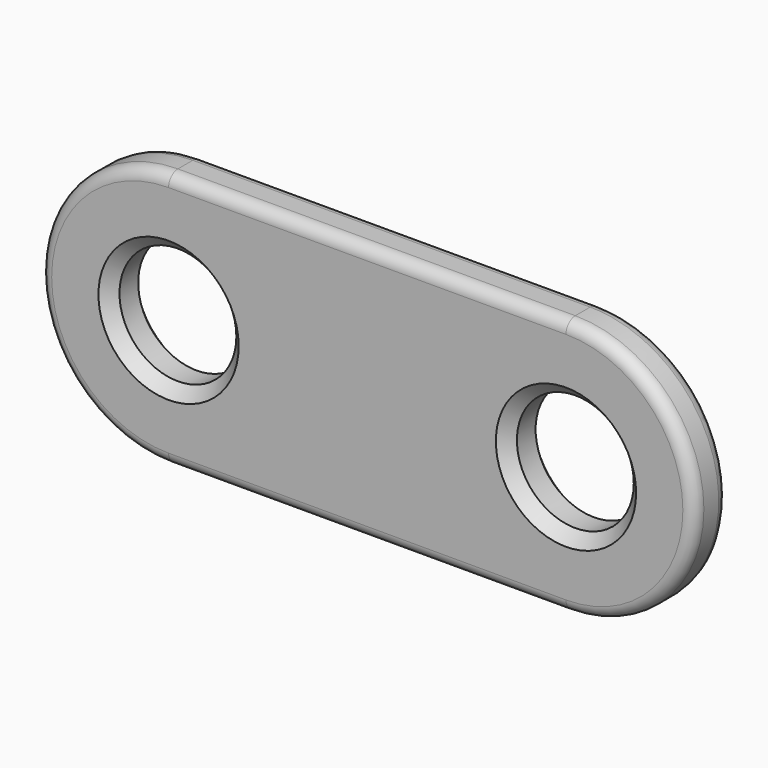
from build123d import *

# Parameters (mm, degrees)
F0_R     = 2.5
F1_DEPTH = 2
F2_R     = 0.5
F3_SIZE  = 0.5
F4_SIZE  = 0.5
F5_R     = 0.5


with BuildPart() as f1:
    # F0 (on Front) → F1 (new body)
    with BuildSketch(Plane.XZ):
        with BuildLine():
            Line((7.1189217238, 7.4524198854), (-9.8810782762, 7.4524198854))
            ThreePointArc((-9.8810782762, 7.4524198854), (-15.3810782762, 1.9524198854), (-9.8810782762, -3.5475801146))
            Line((-9.8810782762, -3.5475801146), (7.1189217238, -3.5475801146))
            ThreePointArc((7.1189217238, -3.5475801146), (12.6189217238, 1.9524198854), (7.1189217238, 7.4524198854))
        make_face()
        with Locations((-9.8810782762, 1.9524198854)):
            Circle(F0_R, mode=Mode.SUBTRACT)
        with Locations((7.1189217238, 1.9524198854)):
            Circle(F0_R, mode=Mode.SUBTRACT)
    extrude(amount=F1_DEPTH)

    # F2
    f2_edges = [f1.edges().sort_by_distance(p)[0] for p in [
        (-1.381078, -2, 7.45242),
    ]]
    fillet(f2_edges, radius=F2_R)

    # F3
    f3_edges = [f1.edges().sort_by_distance(p)[0] for p in [
        (-12.381078, -2, 1.95242),
        (4.618922, -2, 1.95242),
    ]]
    chamfer(f3_edges, length=F3_SIZE)

    # F4
    f4_edges = [f1.edges().sort_by_distance(p)[0] for p in [
        (-12.381078, 0, 1.95242),
        (-1.381078, 0, 7.45242),
        (-15.381078, 0, 1.95242),
        (-1.381078, 0, -3.54758),
        (12.618922, 0, 1.95242),
        (4.618922, 0, 1.95242),
    ]]
    chamfer(f4_edges, length=F4_SIZE)

    # F5
    f5_edges = [f1.edges().sort_by_distance(p)[0] for p in [
        (-1.381078, -0.5, -3.54758),
    ]]
    fillet(f5_edges, radius=F5_R)


solid = f1.part
